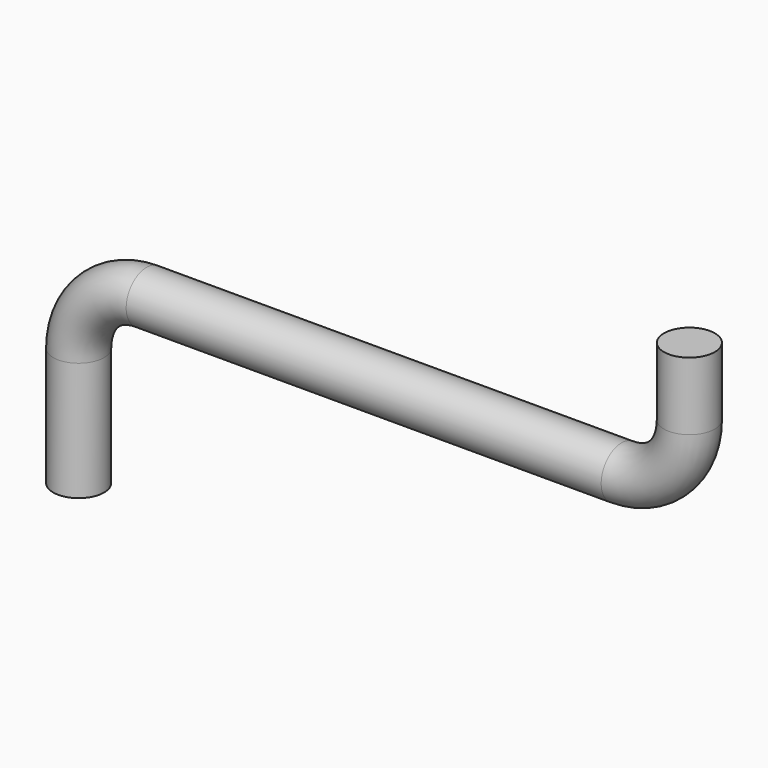
from build123d import *

# Parameters (mm, degrees)
F0_R = 7.5


with BuildPart() as f2:
    # F2: sweep along a path in F1
    with BuildLine(Plane.XZ) as f2_path:
        Line((0, 0), (0, 35))
        ThreePointArc((0, 35), (5.8578643763, 49.1421356237), (20, 55))
        Line((20, 55), (160, 55))
        ThreePointArc((160, 55), (174.1421356237, 60.8578643763), (180, 75))
        Line((180, 75), (180, 95))
    # F0 (on Top) → F2 (sweep)
    with BuildSketch(Plane.XY):
        Circle(F0_R)
    sweep(path=f2_path.line)


solid = f2.part
